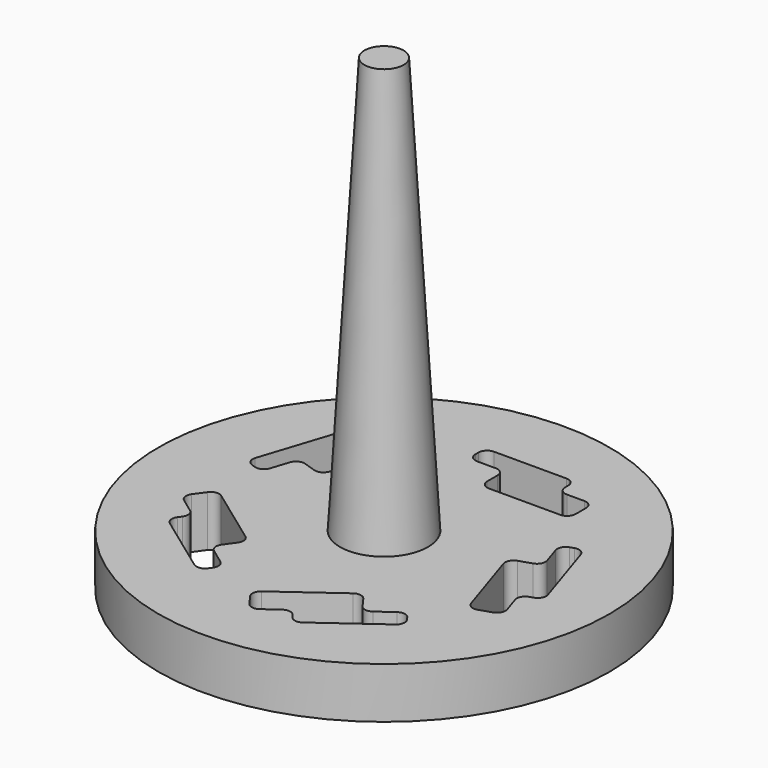
from build123d import *

# Parameters (mm, degrees)
F3_DEPTH = 7.164216


with BuildPart() as f1:
    # F0 (on Front) → F1 (revolve)
    with BuildSketch(Plane.XZ):
        Polygon((0, 38.1), (0, 0), (3.270783, 3.380191), (16.757639, 3.380191), (16.757639, 7.163216), (3.270783, 7.163216), (1.456713, 38.1), align=None)
    revolve(axis=Axis((0, 0, 19.05), (0, 0, 1)))

    # F2 (on face) → F3 (cut, through all)
    with BuildSketch(Plane.XY.offset(7.163216)):
        with BuildLine():
            Line((4.169526, 11.737372), (-1.219378, 11.737372))
            ThreePointArc((-1.219378, 11.737372), (-1.668391, 11.551385), (-1.854378, 11.102372))
            Line((-1.854378, 11.102372), (-1.854378, 10.813008))
            ThreePointArc((-1.854378, 10.813008), (-1.668391, 10.363995), (-1.219378, 10.178008))
            Line((-1.219378, 10.178008), (0.165754, 10.178008))
            ThreePointArc((0.165754, 10.178008), (0.614767, 9.992021), (0.800754, 9.543008))
            Line((0.800754, 9.543008), (0.800754, 8.579325))
            ThreePointArc((0.800754, 8.579325), (0.986741, 8.130312), (1.435754, 7.944325))
            Line((1.435754, 7.944325), (6.740368, 7.944325))
            ThreePointArc((6.740368, 7.944325), (7.189381, 8.130312), (7.375368, 8.579325))
            Line((7.375368, 8.579325), (7.375368, 9.543008))
            ThreePointArc((7.375368, 9.543008), (7.189381, 9.992021), (6.740368, 10.178008))
            Line((6.740368, 10.178008), (5.439526, 10.178008))
            ThreePointArc((5.439526, 10.178008), (4.990513, 10.363995), (4.804526, 10.813008))
            Line((4.804526, 10.813008), (4.804526, 11.102372))
            ThreePointArc((4.804526, 11.102372), (4.618538, 11.551385), (4.169526, 11.737372))
        make_face()
        with BuildLine():
            Line((-9.87445, 7.592502), (-11.539712, 2.46735))
            ThreePointArc((-11.539712, 2.46735), (-11.501581, 1.98284), (-11.132017, 1.667203))
            Line((-11.132017, 1.667203), (-10.856816, 1.577785))
            ThreePointArc((-10.856816, 1.577785), (-10.372306, 1.615917), (-10.05667, 1.98548))
            Line((-10.05667, 1.98548), (-9.62864, 3.302819))
            ThreePointArc((-9.62864, 3.302819), (-9.313003, 3.672382), (-8.828493, 3.710514))
            Line((-8.828493, 3.710514), (-7.911976, 3.41272))
            ThreePointArc((-7.911976, 3.41272), (-7.427467, 3.450851), (-7.11183, 3.820415))
            Line((-7.11183, 3.820415), (-5.472614, 8.865403))
            ThreePointArc((-5.472614, 8.865403), (-5.510745, 9.349912), (-5.880309, 9.665549))
            Line((-5.880309, 9.665549), (-6.796826, 9.963344))
            ThreePointArc((-6.796826, 9.963344), (-7.281336, 9.925212), (-7.596973, 9.555649))
            Line((-7.596973, 9.555649), (-7.998955, 8.318474))
            ThreePointArc((-7.998955, 8.318474), (-8.314592, 7.94891), (-8.799102, 7.910779))
            Line((-8.799102, 7.910779), (-9.074303, 8.000197))
            ThreePointArc((-9.074303, 8.000197), (-9.558813, 7.962065), (-9.87445, 7.592502))
        make_face()
        with BuildLine():
            Line((-10.272271, -7.044948), (-5.912556, -10.212466))
            ThreePointArc((-5.912556, -10.212466), (-5.439977, -10.325922), (-5.025587, -10.071984))
            Line((-5.025587, -10.071984), (-4.855503, -9.837883))
            ThreePointArc((-4.855503, -9.837883), (-4.742047, -9.365304), (-4.995985, -8.950914))
            Line((-4.995985, -8.950914), (-6.116581, -8.136754))
            ThreePointArc((-6.116581, -8.136754), (-6.37052, -7.722364), (-6.257063, -7.249784))
            Line((-6.257063, -7.249784), (-5.690624, -6.470148))
            ThreePointArc((-5.690624, -6.470148), (-5.577168, -5.997569), (-5.831107, -5.583179))
            Line((-5.831107, -5.583179), (-10.12263, -2.465205))
            ThreePointArc((-10.12263, -2.465205), (-10.595209, -2.351748), (-11.009599, -2.605687))
            Line((-11.009599, -2.605687), (-11.576038, -3.385323))
            ThreePointArc((-11.576038, -3.385323), (-11.689494, -3.857902), (-11.435556, -4.272292))
            Line((-11.435556, -4.272292), (-10.383152, -5.036909))
            ThreePointArc((-10.383152, -5.036909), (-10.129213, -5.451299), (-10.24267, -5.923878))
            Line((-10.24267, -5.923878), (-10.412753, -6.157978))
            ThreePointArc((-10.412753, -6.157978), (-10.52621, -6.630558), (-10.272271, -7.044948))
        make_face()
        with BuildLine():
            Line((3.525837, -11.946519), (7.885552, -8.779001))
            ThreePointArc((7.885552, -8.779001), (8.13949, -8.364611), (8.026034, -7.892031))
            Line((8.026034, -7.892031), (7.85595, -7.657931))
            ThreePointArc((7.85595, -7.657931), (7.44156, -7.403993), (6.968981, -7.517449))
            Line((6.968981, -7.517449), (5.848385, -8.331609))
            ThreePointArc((5.848385, -8.331609), (5.375806, -8.445066), (4.961416, -8.191127))
            Line((4.961416, -8.191127), (4.394977, -7.411491))
            ThreePointArc((4.394977, -7.411491), (3.980587, -7.157553), (3.508007, -7.271009))
            Line((3.508007, -7.271009), (-0.783516, -10.388983))
            ThreePointArc((-0.783516, -10.388983), (-1.037454, -10.803373), (-0.923998, -11.275952))
            Line((-0.923998, -11.275952), (-0.357559, -12.055589))
            ThreePointArc((-0.357559, -12.055589), (0.056831, -12.309527), (0.52941, -12.196071))
            Line((0.52941, -12.196071), (1.581814, -11.431454))
            ThreePointArc((1.581814, -11.431454), (2.054394, -11.317998), (2.468784, -11.571937))
            Line((2.468784, -11.571937), (2.638868, -11.806037))
            ThreePointArc((2.638868, -11.806037), (3.053258, -12.059975), (3.525837, -11.946519))
        make_face()
        with BuildLine():
            Line((12.451358, -0.338407), (10.786095, 4.786745))
            ThreePointArc((10.786095, 4.786745), (10.470458, 5.156308), (9.985949, 5.19444))
            Line((9.985949, 5.19444), (9.710747, 5.105022))
            ThreePointArc((9.710747, 5.105022), (9.341184, 4.789385), (9.303052, 4.304875))
            Line((9.303052, 4.304875), (9.731082, 2.987536))
            ThreePointArc((9.731082, 2.987536), (9.69295, 2.503026), (9.323387, 2.187389))
            Line((9.323387, 2.187389), (8.40687, 1.889595))
            ThreePointArc((8.40687, 1.889595), (8.037306, 1.573958), (7.999175, 1.089448))
            Line((7.999175, 1.089448), (9.63839, -3.95554))
            ThreePointArc((9.63839, -3.95554), (9.954027, -4.325103), (10.438537, -4.363235))
            Line((10.438537, -4.363235), (11.355054, -4.06544))
            ThreePointArc((11.355054, -4.06544), (11.724618, -3.749804), (11.762749, -3.265294))
            Line((11.762749, -3.265294), (11.360767, -2.028119))
            ThreePointArc((11.360767, -2.028119), (11.398899, -1.543609), (11.768462, -1.227972))
            Line((11.768462, -1.227972), (12.043663, -1.138554))
            ThreePointArc((12.043663, -1.138554), (12.413226, -0.822917), (12.451358, -0.338407))
        make_face()
    extrude(amount=-F3_DEPTH, mode=Mode.SUBTRACT)


solid = f1.part
